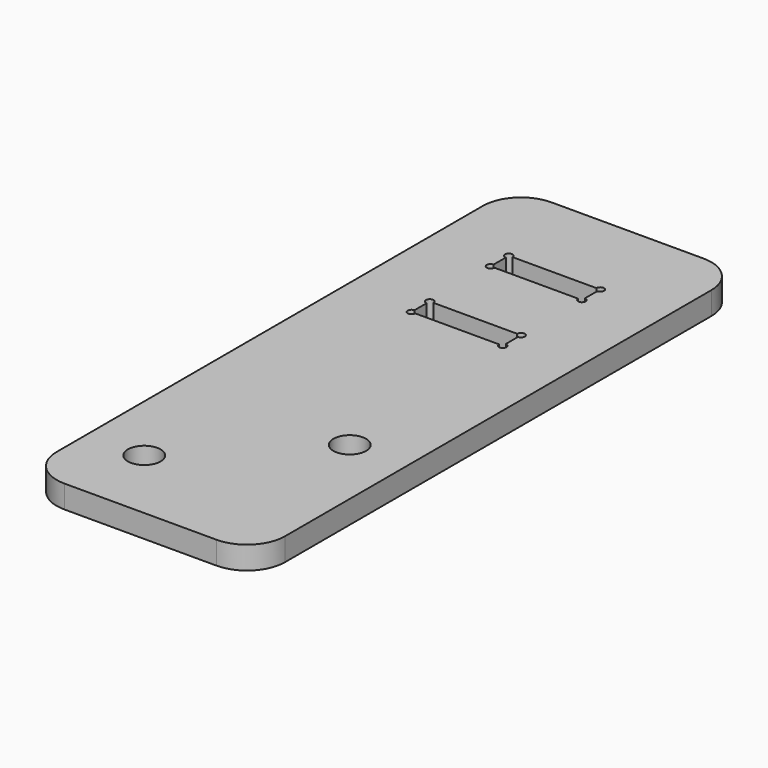
from build123d import *

# Parameters (mm, degrees)
F0_R     = 2.15
F1_DEPTH = 3


with BuildPart() as f1:
    # F0 (on Top) → F1 (new body)
    with BuildSketch(Plane.XY):
        with BuildLine():
            ThreePointArc((15, 35), (13.535534, 38.535534), (10, 40))
            Line((10, 40), (-10, 40))
            ThreePointArc((-10, 40), (-13.535534, 38.535534), (-15, 35))
            Line((-15, 35), (-15, -35))
            ThreePointArc((-15, -35), (-13.535534, -38.535534), (-10, -40))
            Line((-10, -40), (10, -40))
            ThreePointArc((10, -40), (13.535534, -38.535534), (15, -35))
            Line((15, -35), (15, 35))
        make_face()
        with Locations((-7.5, -30)):
            Circle(F0_R, mode=Mode.SUBTRACT)
        with Locations((7.5, -15)):
            Circle(F0_R, mode=Mode.SUBTRACT)
        with BuildLine():
            Line((5.5, 12), (-5.5, 12))
            ThreePointArc((-5.5, 12), (-6.353553, 11.646447), (-6, 12.5))
            Line((-6, 12.5), (-6, 14.5))
            ThreePointArc((-6, 14.5), (-6.353553, 15.353553), (-5.5, 15))
            Line((-5.5, 15), (5.5, 15))
            ThreePointArc((5.5, 15), (6, 15.5), (6.5, 15))
            ThreePointArc((6.5, 15), (6.353553, 14.646447), (6, 14.5))
            Line((6, 14.5), (6, 12.5))
            ThreePointArc((6, 12.5), (6.353553, 12.353553), (6.5, 12))
            ThreePointArc((6.5, 12), (6, 11.5), (5.5, 12))
        make_face(mode=Mode.SUBTRACT)
        with BuildLine():
            Line((5.5, 25), (-5.5, 25))
            ThreePointArc((-5.5, 25), (-6.353553, 24.646447), (-6, 25.5))
            Line((-6, 25.5), (-6, 27.5))
            ThreePointArc((-6, 27.5), (-6.353553, 28.353553), (-5.5, 28))
            Line((-5.5, 28), (5.5, 28))
            ThreePointArc((5.5, 28), (6, 28.5), (6.5, 28))
            ThreePointArc((6.5, 28), (6.353553, 27.646447), (6, 27.5))
            Line((6, 27.5), (6, 25.5))
            ThreePointArc((6, 25.5), (6.353553, 25.353553), (6.5, 25))
            ThreePointArc((6.5, 25), (6, 24.5), (5.5, 25))
        make_face(mode=Mode.SUBTRACT)
    extrude(amount=F1_DEPTH)


solid = f1.part
